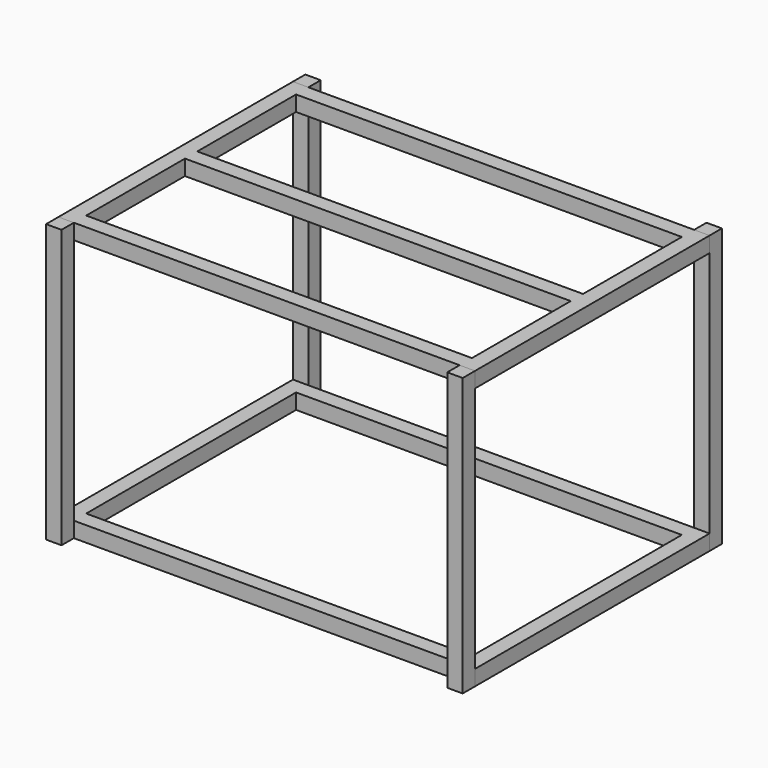
from build123d import *

# Parameters (mm, degrees)
F0_W     = 1371.6
F0_H     = 965.2
F0_W_2   = 260.35
F0_H_2   = 25.4
F0_W_3   = 234.95
F0_W_4   = 254
F1_DEPTH = 50.8
F2_W     = 50.8
F2_H     = 50.8
F3_DEPTH = 914.4
F4_W     = 1371.6
F4_H     = 965.2
F4_W_2   = 1270
F4_H_2   = 863.6
F5_DEPTH = 50.8


with BuildPart() as f1:
    # F0 (on Top) → F1 (new body)
    with BuildSketch(Plane.XY):
        with Locations((-416.3326116403, 106.5828682661)):
            Rectangle(F0_W, F0_H)
        Polygon((-816.3826116403, -350.6171317339), (-1076.7326116403, -350.6171317339), (-1076.7326116403, -122.0171317339), (-1076.7326116403, 106.5828682661), (-1076.7326116403, 335.1828682661), (-1076.7326116403, 563.7828682661), (-816.3826116403, 563.7828682661), (-556.0326116403, 563.7828682661), (-295.6826116403, 563.7828682661), (-35.3326116403, 563.7828682661), (244.0673883597, 563.7828682661), (244.0673883597, 335.1828682661), (244.0673883597, 106.5828682661), (244.0673883597, -122.0171317339), (244.0673883597, -350.6171317339), (-35.3326116403, -350.6171317339), (-295.6826116403, -350.6171317339), (-556.0326116403, -350.6171317339), align=None, mode=Mode.SUBTRACT)
        Polygon((-1076.7326116403, -122.0171317339), (-1076.7326116403, -350.6171317339), (-816.3826116403, -350.6171317339), (-816.3826116403, -325.2171317339), (-1051.3326116403, -325.2171317339), (-1051.3326116403, -122.0171317339), (-1051.3326116403, 81.1828682661), (-1051.3326116403, 106.5828682661), (-1051.3326116403, 131.9828682661), (-1051.3326116403, 335.1828682661), (-1051.3326116403, 538.3828682661), (-816.3826116403, 538.3828682661), (-556.0326116403, 538.3828682661), (-295.6826116403, 538.3828682661), (-35.3326116403, 538.3828682661), (218.6673883597, 538.3828682661), (218.6673883597, 335.1828682661), (218.6673883597, 131.9828682661), (218.6673883597, 106.5828682661), (244.0673883597, 106.5828682661), (244.0673883597, 335.1828682661), (244.0673883597, 563.7828682661), (-35.3326116403, 563.7828682661), (-295.6826116403, 563.7828682661), (-556.0326116403, 563.7828682661), (-816.3826116403, 563.7828682661), (-1076.7326116403, 563.7828682661), (-1076.7326116403, 335.1828682661), (-1076.7326116403, 106.5828682661), align=None)
        Polygon((-295.6826116403, -325.2171317339), (-295.6826116403, -350.6171317339), (-35.3326116403, -350.6171317339), (244.0673883597, -350.6171317339), (244.0673883597, -122.0171317339), (244.0673883597, 106.5828682661), (218.6673883597, 106.5828682661), (218.6673883597, 81.1828682661), (218.6673883597, -122.0171317339), (218.6673883597, -325.2171317339), (-35.3326116403, -325.2171317339), align=None)
        with Locations((-425.8576116403, -337.9171317339)):
            Rectangle(F0_W_2, F0_H_2)
        with Locations((-686.2076116403, -337.9171317339)):
            Rectangle(F0_W_2, F0_H_2)
        with Locations((-933.8576116403, 119.2828682661)):
            Rectangle(F0_W_3, F0_H_2)
        with Locations((-686.2076116403, 119.2828682661)):
            Rectangle(F0_W_2, F0_H_2)
        with Locations((-425.8576116403, 119.2828682661)):
            Rectangle(F0_W_2, F0_H_2)
        with Locations((-165.5076116403, 119.2828682661)):
            Rectangle(F0_W_2, F0_H_2)
        with Locations((91.6673883597, 119.2828682661)):
            Rectangle(F0_W_4, F0_H_2)
        with Locations((-933.8576116403, 93.8828682661)):
            Rectangle(F0_W_3, F0_H_2)
        with Locations((-686.2076116403, 93.8828682661)):
            Rectangle(F0_W_2, F0_H_2)
        with Locations((-425.8576116403, 93.8828682661)):
            Rectangle(F0_W_2, F0_H_2)
        with Locations((-165.5076116403, 93.8828682661)):
            Rectangle(F0_W_2, F0_H_2)
        with Locations((91.6673883597, 93.8828682661)):
            Rectangle(F0_W_4, F0_H_2)
    extrude(amount=F1_DEPTH)


with BuildPart() as f3:
    # F2 (on face) → F3 (new body)
    with BuildSketch(Plane.XY.offset(50.8)):
        with Locations((244.0673883597, 614.5828682661)):
            Rectangle(F2_W, F2_H)
    extrude(amount=-F3_DEPTH)


with BuildPart() as f3b:
    # F2 (on face) → F3, piece 2 (new body)
    with BuildSketch(Plane.XY.offset(50.8)):
        with Locations((-1076.7326116403, -401.4171317339)):
            Rectangle(F2_W, F2_H)
    extrude(amount=-F3_DEPTH)


with BuildPart() as f3c:
    # F2 (on face) → F3, piece 3 (new body)
    with BuildSketch(Plane.XY.offset(50.8)):
        with Locations((244.0673883597, -401.4171317339)):
            Rectangle(F2_W, F2_H)
    extrude(amount=-F3_DEPTH)


with BuildPart() as f3d:
    # F2 (on face) → F3, piece 4 (new body)
    with BuildSketch(Plane.XY.offset(50.8)):
        with Locations((-1076.7326116403, 614.5828682661)):
            Rectangle(F2_W, F2_H)
    extrude(amount=-F3_DEPTH)


with BuildPart() as f5:
    # F4 (on face) → F5 (new body)
    with BuildSketch(Plane(origin=(0, 0, -863.6), x_dir=(1, 0, 0), z_dir=(0, 0, -1))):
        with Locations((-416.3326116403, -106.5828682661)):
            Rectangle(F4_W, F4_H)
        with Locations((-416.3326116403, -106.5828682661)):
            Rectangle(F4_W_2, F4_H_2, mode=Mode.SUBTRACT)
    extrude(amount=-F5_DEPTH)


solid = Compound([f1.part, f3.part, f3b.part, f3c.part, f3d.part, f5.part])
